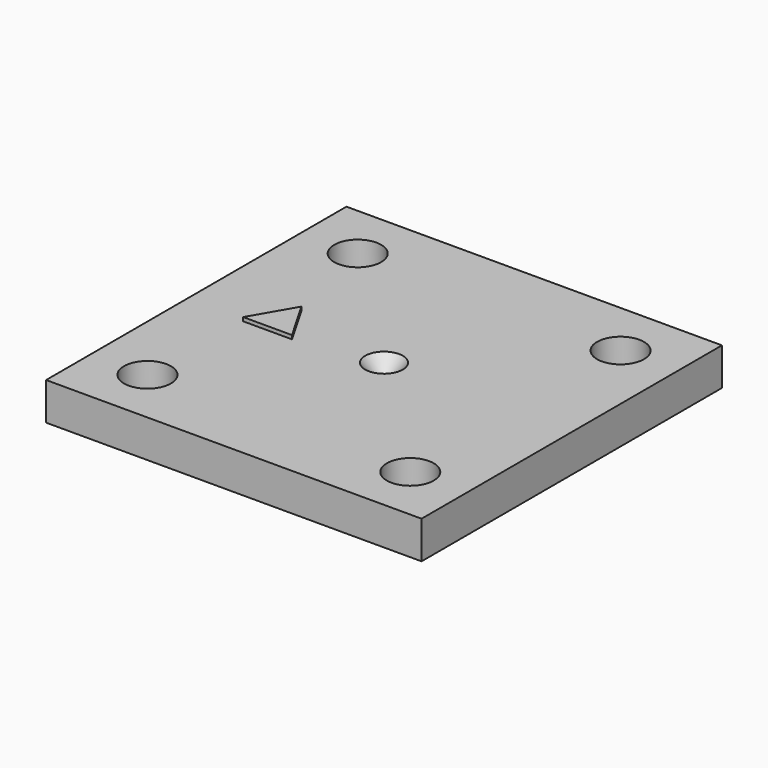
from build123d import *

# Parameters (mm, degrees)
F0_W      = 20
F0_H      = 20
F1_DEPTH  = 1
F2_R      = 1
F3_R      = 0.15
F6_W      = 20
F6_H      = 20
F6_R      = 0.15
F7_DEPTH  = 1
F8_D      = 2.5
F10_DEPTH = 0.2


with BuildPart() as f1:
    # F0 (on Top) → F1 (new body)
    with BuildSketch(Plane.XY):
        Rectangle(F0_W, F0_H)
    extrude(amount=-F1_DEPTH)

    # F2 (on face) → F4 section 0
    with BuildSketch(Plane.XY):
        Circle(F2_R)
    # F3 (on face) → F4 section 1
    with BuildSketch(Plane(origin=(0, 0, -1), x_dir=(1, 0, 0), z_dir=(0, 0, -1))):
        Circle(F3_R)
    loft(mode=Mode.SUBTRACT)

    # F6 (on face) → F7 (join)
    with BuildSketch(Plane(origin=(0, 0, -1), x_dir=(1, 0, 0), z_dir=(0, 0, -1))):
        Rectangle(F6_W, F6_H)
        Circle(F6_R, mode=Mode.SUBTRACT)
    extrude(amount=F7_DEPTH)

    # F8 (through all)
    with Locations(Plane.XY):
        with Locations((-7, -7), (7, -7), (7, 7), (-7, 7)):
            Hole(F8_D / 2)

    # F9 (on face) → F10 (join)
    with BuildSketch(Plane.XY):
        Polygon((-4.3009618943, -0.75), (-5.6, 1.5), (-6.8990381057, -0.75), align=None)
    extrude(amount=F10_DEPTH)


solid = f1.part
